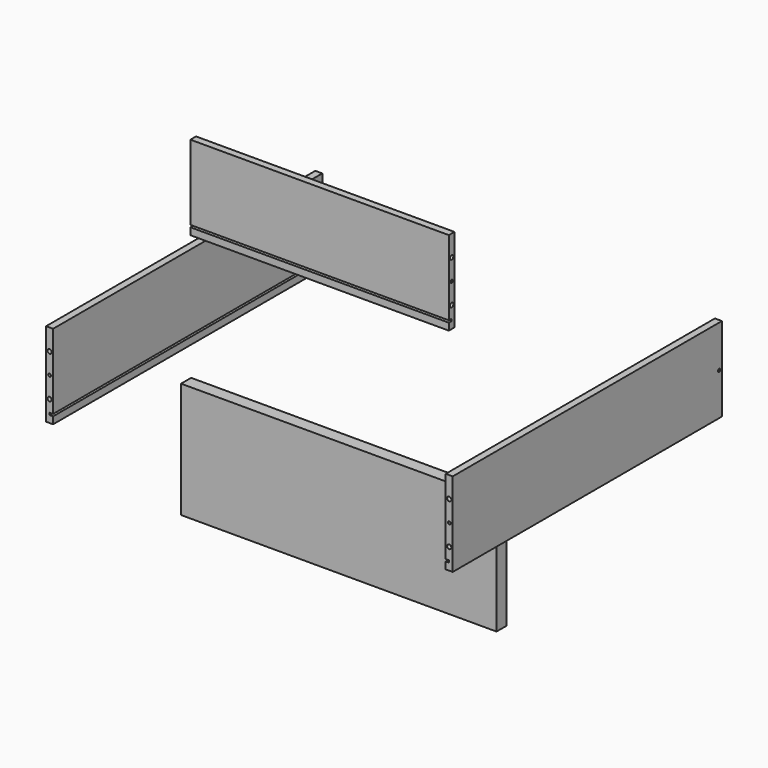
from build123d import *

# Parameters (mm, degrees)
F2_START  = -280
F1_W      = 480
F1_H      = 120
F2_DEPTH  = 10
F4_START  = -280
F3_W      = 480
F3_H      = 3
F4_DEPTH  = 5
F6_W      = 368.6
F6_H      = 120
F8_DEPTH  = 10
F9_START  = 5
F7_W      = 368.6
F7_H      = 3
F9_DEPTH  = 5
F11_D     = 6
F12_D     = 4
F14_D     = 6
F14_DEPTH = 7
F14_TIP   = 1.8025818571
F15_D     = 4
F17_D     = 6
F17_DEPTH = 20
F17_TIP   = 1.8025818571
F18_D     = 4
F18_DEPTH = 50
F18_TIP   = 1.2017212381
F20_W     = 450
F20_H     = 165
F22_DEPTH = 18
F21_W     = 400
F21_H     = 3
F23_DEPTH = 5
F25_D     = 6
F25_DEPTH = 10
F25_TIP   = 1.8025818571
F26_D     = 4
F26_DEPTH = 10
F26_TIP   = 1.2017212381


with BuildPart() as f2:
    # F1 (on Right) → F2 (new body)
    with BuildSketch(Plane.YZ.offset(F2_START)):
        with Locations((-5.5737721175, 6.337106453)):
            Rectangle(F1_W, F1_H)
    extrude(amount=-F2_DEPTH)


with BuildPart() as f4:
    # F3 (on Right) → F4 (new body)
    with BuildSketch(Plane.YZ.offset(F4_START)):
        with Locations((-5.5737721175, -42.162893547)):
            Rectangle(F3_W, F3_H)
    extrude(amount=-F4_DEPTH)


with BuildPart() as f2_1:
    add(f2.part)

    # F5: cut F4
    add(f4.part, mode=Mode.SUBTRACT)

    # F14
    with Locations(Plane.YZ.offset(-280)):
        with Locations((229.4262278825, 36.337106453), (229.4262278825, -23.662893547)):
            Hole(F14_D / 2, depth=F14_DEPTH)
            with Locations((0, 0, -(F14_DEPTH + F14_TIP / 2))):  # 118° drill point
                Cone(0, F14_D / 2, F14_TIP, mode=Mode.SUBTRACT)

    # F15 (through all)
    with Locations(Plane.YZ.offset(-280)):
        with Locations((229.4262278825, 6.337106453)):
            Hole(F15_D / 2)

    # F17
    with Locations(Plane.XZ.offset(245.5737721175)):
        with Locations((-285, 36.337106453), (-285, -23.662893547)):
            Hole(F17_D / 2, depth=F17_DEPTH)
            with Locations((0, 0, -(F17_DEPTH + F17_TIP / 2))):  # 118° drill point
                Cone(0, F17_D / 2, F17_TIP, mode=Mode.SUBTRACT)

    # F18
    with Locations(Plane.XZ.offset(245.5737721175)):
        with Locations((-285, 6.337106453)):
            Hole(F18_D / 2, depth=F18_DEPTH)
            with Locations((0, 0, -(F18_DEPTH + F18_TIP / 2))):  # 118° drill point
                Cone(0, F18_D / 2, F18_TIP, mode=Mode.SUBTRACT)


with BuildPart() as f8:
    # F6 (on Front) → F8 (new body)
    with BuildSketch(Plane.XZ):
        with Locations((-88.2777126489, 150.4613161087)):
            Rectangle(F6_W, F6_H)
    extrude(amount=F8_DEPTH)

    # F7 (on Front) → F9 (cut)
    with BuildSketch(Plane.XZ.offset(F9_START)):
        with Locations((-88.2777126489, 101.9613161087)):
            Rectangle(F7_W, F7_H)
    extrude(amount=F9_DEPTH, mode=Mode.SUBTRACT)

    # F11 (through all)
    with Locations(Plane(origin=(-272.5777126489, 0, 0), x_dir=(0, -1, 0), z_dir=(-1, 0, 0))):
        with Locations((5, 180.4613161087), (5, 120.4613161087)):
            Hole(F11_D / 2)

    # F12 (through all)
    with Locations(Plane(origin=(-272.5777126489, 0, 0), x_dir=(0, -1, 0), z_dir=(-1, 0, 0))):
        with Locations((5, 150.4613161087)):
            Hole(F12_D / 2)


with BuildPart() as f19_1:
    # F19: instance of F2
    add(f2_1.part.mirror(Plane.YZ))


with BuildPart() as f22:
    # F20 (on Front) → F22 (new body)
    with BuildSketch(Plane.XZ):
        with Locations((-54.5689842575, -177.4270378053)):
            Rectangle(F20_W, F20_H)
    extrude(amount=F22_DEPTH)

    # F21 (on face) → F23 (cut)
    with BuildSketch(Plane.XZ):
        with Locations((-54.5689842575, -228.4270378053)):
            Rectangle(F21_W, F21_H)
    extrude(amount=F23_DEPTH, mode=Mode.SUBTRACT)

    # F25
    with Locations(Plane(origin=(0, 0, 0), x_dir=(-1, 0, 0), z_dir=(0, 1, 0))):
        with Locations((-134.7310157425, -149.9270378053), (-134.7310157425, -209.9270378053), (243.8689842575, -209.9270378053), (243.8689842575, -149.9270378053)):
            Hole(F25_D / 2, depth=F25_DEPTH)
            with Locations((0, 0, -(F25_DEPTH + F25_TIP / 2))):  # 118° drill point
                Cone(0, F25_D / 2, F25_TIP, mode=Mode.SUBTRACT)

    # F26
    with Locations(Plane(origin=(0, 0, 0), x_dir=(-1, 0, 0), z_dir=(0, 1, 0))):
        with Locations((-134.7310157425, -179.9270378053), (243.8689842575, -179.9270378053)):
            Hole(F26_D / 2, depth=F26_DEPTH)
            with Locations((0, 0, -(F26_DEPTH + F26_TIP / 2))):  # 118° drill point
                Cone(0, F26_D / 2, F26_TIP, mode=Mode.SUBTRACT)


solid = Compound([f2_1.part, f8.part, f19_1.part, f22.part])
